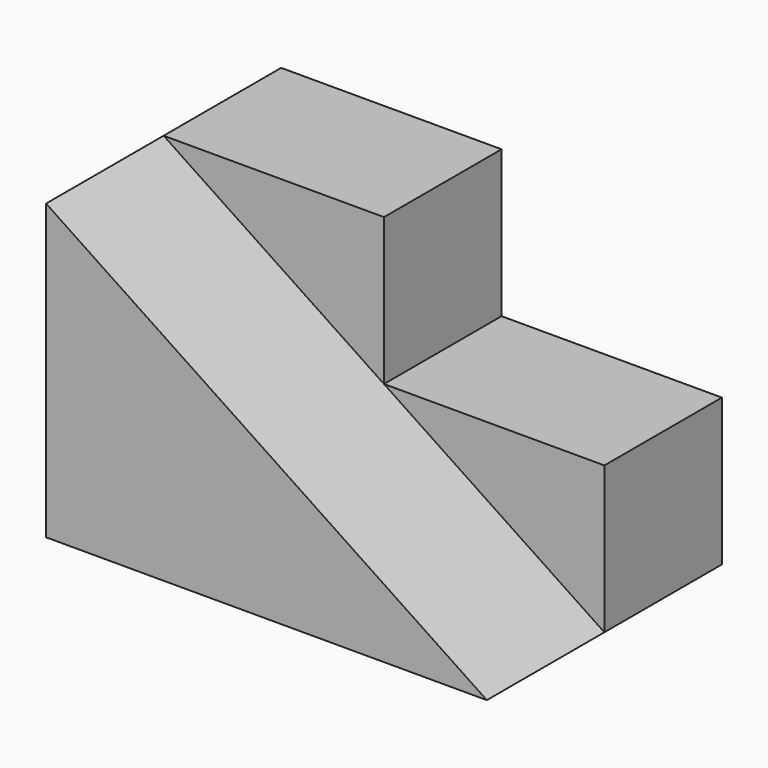
from build123d import *

# Parameters (mm, degrees)
F1_DEPTH = 25.4
F2_DEPTH = 12.7


with BuildPart() as f1:
    # F0 (on Front) → F1 (new body)
    with BuildSketch(Plane.XZ):
        Polygon((12.783555, -7.470997), (-6.266445, 5.229003), (-6.266445, -20.170997), (31.833555, -20.170997), align=None)
    extrude(amount=F1_DEPTH)

    # F0 (on Front) → F2 (join)
    with BuildSketch(Plane.XZ):
        Polygon((12.783555, 5.229003), (-6.266445, 5.229003), (12.783555, -7.470997), align=None)
        Polygon((31.833555, -7.470997), (12.783555, -7.470997), (31.833555, -20.170997), align=None)
    extrude(amount=F2_DEPTH)


solid = f1.part
